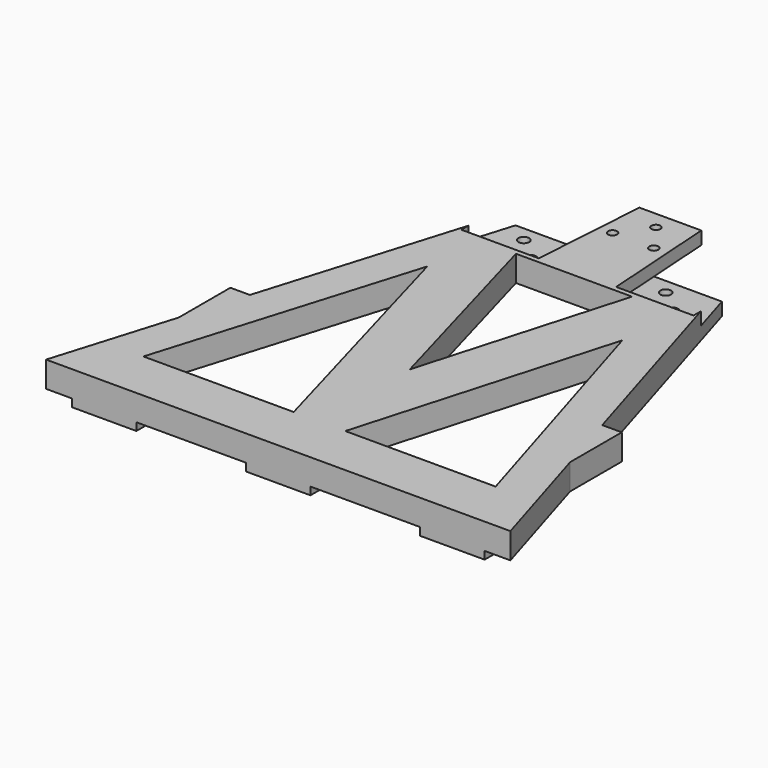
from build123d import *

# Parameters (mm, degrees)
F1_DEPTH  = 10
F2_W      = 30
F2_H      = 25
F3_DEPTH  = 5
F4_W      = 30
F4_H      = 20
F5_DEPTH  = 5
F6_W      = 25
F6_H      = 13
F7_DEPTH  = 13
F8_R      = 2.1
F9_DEPTH  = 6
F11_DEPTH = 25
F12_R     = 1.75
F12_R_2   = 2.1
F13_DEPTH = 25


with BuildPart() as f1:
    # F0 (on Top) → F1 (new body)
    with BuildSketch(Plane.XY):
        Polygon((15, 12.5), (-15, 12.5), (-15, -12.5), (-40, -12.5), (-68.291549, -105.862112), (-75.867307, -105.862112), (-75.867307, -130.862112), (-90, -177.5), (90, -177.5), (75.867307, -130.862112), (75.867307, -105.862112), (68.291549, -105.862112), (40, -12.5), (15, -12.5), align=None)
        Polygon((-10, -157.5), (-68.265812, -157.5), (-38.036853, -57.744435), align=None, mode=Mode.SUBTRACT)
        Polygon((68.265812, -157.5), (10, -157.5), (38.319605, -58.677516), align=None, mode=Mode.SUBTRACT)
        Polygon((0, -113.740444), (-22.281395, -34.462891), (22.718605, -34.462891), align=None, mode=Mode.SUBTRACT)
    extrude(amount=F1_DEPTH)

    # F2 (on face) → F3 (cut)
    with BuildSketch(Plane(origin=(0, 0, 0), x_dir=(1, 0, 0), z_dir=(0, 0, -1))):
        Rectangle(F2_W, F2_H)
    extrude(amount=-F3_DEPTH, mode=Mode.SUBTRACT)

    # F4 (on face) → F5 (cut)
    with BuildSketch(Plane.XY.offset(10)):
        with Locations((-30, -22.5)):
            Rectangle(F4_W, F4_H)
        with Locations((30, -22.5)):
            Rectangle(F4_W, F4_H)
    extrude(amount=-F5_DEPTH, mode=Mode.SUBTRACT)

    # F6 (on face) → F7 (join)
    with BuildSketch(Plane.XY.offset(10)):
        with Locations((-67.5, -171)):
            Rectangle(F6_W, F6_H)
        with Locations((0, -171)):
            Rectangle(F6_W, F6_H)
        with Locations((67.5, -171)):
            Rectangle(F6_W, F6_H)
    extrude(amount=-F7_DEPTH)

    # F8 (on face) → F9 (cut)
    with BuildSketch(Plane(origin=(0, 0, -3), x_dir=(1, 0, 0), z_dir=(0, 0, -1))):
        with Locations((-74, 171)):
            Circle(F8_R)
        with Locations((-61, 171)):
            Circle(F8_R)
        with Locations((-6.5, 171)):
            Circle(F8_R)
        with Locations((6.5, 171)):
            Circle(F8_R)
        with Locations((61, 171)):
            Circle(F8_R)
        with Locations((74, 171)):
            Circle(F8_R)
    extrude(amount=-F9_DEPTH, mode=Mode.SUBTRACT)

    # F10 (on face) → F11 (cut)
    with BuildSketch(Plane(origin=(0, 0, 5), x_dir=(1, 0, 0), z_dir=(0, 0, -1))):
        Polygon((-15, 32.5), (-15, -12.5), (-12, -12.5), align=None)
        Polygon((12, -12.5), (15, -12.5), (15, 32.5), align=None)
    extrude(amount=-F11_DEPTH, mode=Mode.SUBTRACT)

    # F12 (on face) → F13 (cut)
    with BuildSketch(Plane(origin=(0, 0, 0), x_dir=(1, 0, 0), z_dir=(0, 0, -1))):
        with Locations((0, -5.5)):
            Circle(F12_R)
        with Locations((-8, 5.5)):
            Circle(F12_R)
        with Locations((8, 5.5)):
            Circle(F12_R)
        with Locations((32, 26.462891)):
            Circle(F12_R_2)
        with Locations((23, 18.5)):
            Circle(F12_R_2)
        with Locations((-23, 26.462891)):
            Circle(F12_R_2)
        with Locations((-32, 18.5)):
            Circle(F12_R_2)
    extrude(amount=-F13_DEPTH, mode=Mode.SUBTRACT)


solid = f1.part
